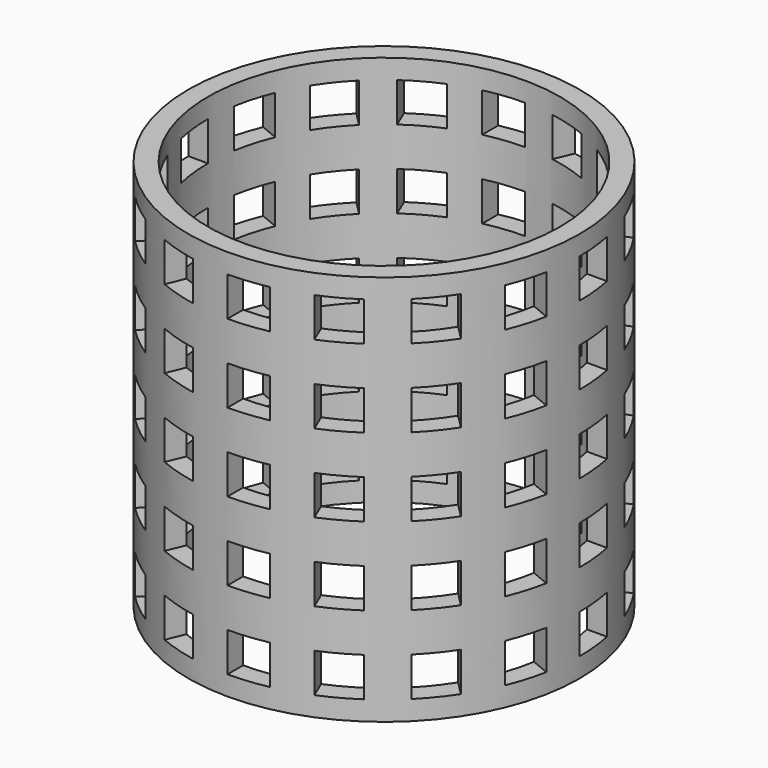
from build123d import *

# Parameters (mm, degrees)
BOX_W            = 1
BOX_H            = 0.1
BOX_DEPTH        = 0.1
ARRAY_COUNT      = 16
ARRAY001_Z_COUNT = 5
ARRAY001_Z_PITCH = 0.2
TUBE_R           = 0.5
TUBE_R_2         = 0.45
TUBE_DEPTH       = 1


with BuildPart() as array001:
    # Box → Box (new body)
    with BuildSketch(Plane.XY):
        with Locations((0.5, 0.05)):
            Rectangle(BOX_W, BOX_H)
    extrude(amount=BOX_DEPTH)

    # Array: Array001 ×16 about axis
    array_axis = Axis((0, 0, 0), (0, 0, 1))


with BuildPart() as array001_1:
    add(array001.part)
    for i in range(1, ARRAY_COUNT):
        add(array001.part.rotate(array_axis, i * 360 / ARRAY_COUNT))

    # Array001 Z: Array001 ×5


with BuildPart() as array001_2:
    add(array001_1.part)
    with Locations(*[(0, 0, i * ARRAY001_Z_PITCH) for i in range(1, ARRAY001_Z_COUNT)]):
        add(array001_1.part)


with BuildPart() as array001_3:
    # Array001 placement: moved
    add(array001_2.part.moved(Location((0, 0, 0.05))))


with BuildPart() as cut:
    # Tube → Tube (new body)
    with BuildSketch(Plane.XY):
        Circle(TUBE_R)
        Circle(TUBE_R_2, mode=Mode.SUBTRACT)
    extrude(amount=TUBE_DEPTH)

    # Cut: cut Array001
    add(array001_3.part, mode=Mode.SUBTRACT)


solid = cut.part
